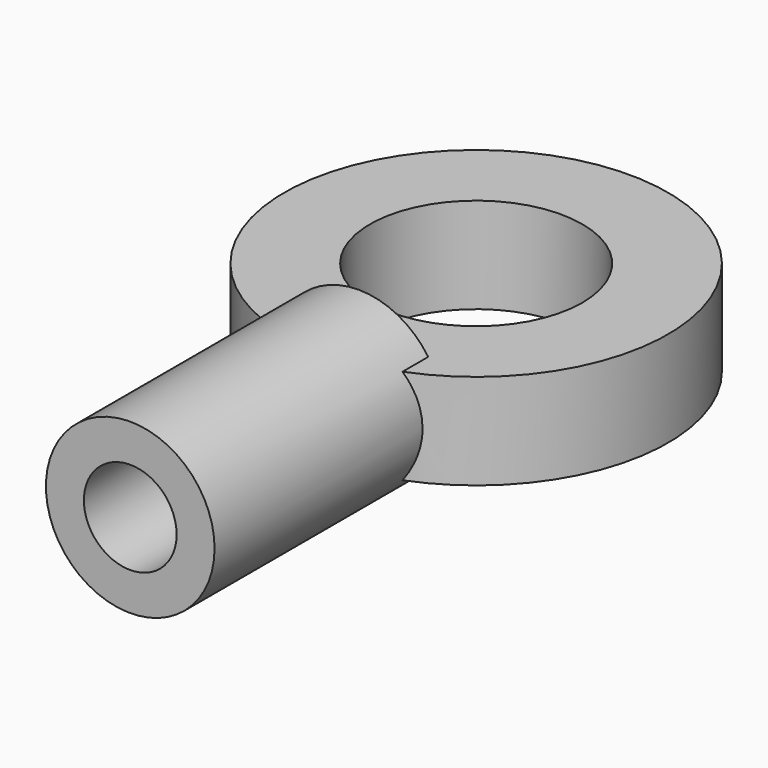
from build123d import *

# Parameters (mm, degrees)
F0_R     = 8.535
F0_R_2   = 4.725
F1_DEPTH = 2.125
F3_R     = 3.75
F3_R_2   = 2
F4_DEPTH = 12.7
F5_R     = 2.0625
F6_DEPTH = 10.16


with BuildPart() as f1:
    # F0 (on Top) → F1 (new body, symmetric)
    with BuildSketch(Plane.XY):
        Circle(F0_R)
        Circle(F0_R_2, mode=Mode.SUBTRACT)
    extrude(amount=F1_DEPTH, both=True)

    # F3 (on offset) → F4 (join)
    with BuildSketch(Plane.XZ.offset(6.53)):
        Circle(F3_R)
        Circle(F3_R_2, mode=Mode.SUBTRACT)
        Circle(F3_R_2)
    extrude(amount=F4_DEPTH)

    # F5 (on face) → F6 (cut)
    with BuildSketch(Plane.XZ.offset(19.23)):
        Circle(F5_R)
    extrude(amount=-F6_DEPTH, mode=Mode.SUBTRACT)


solid = f1.part
